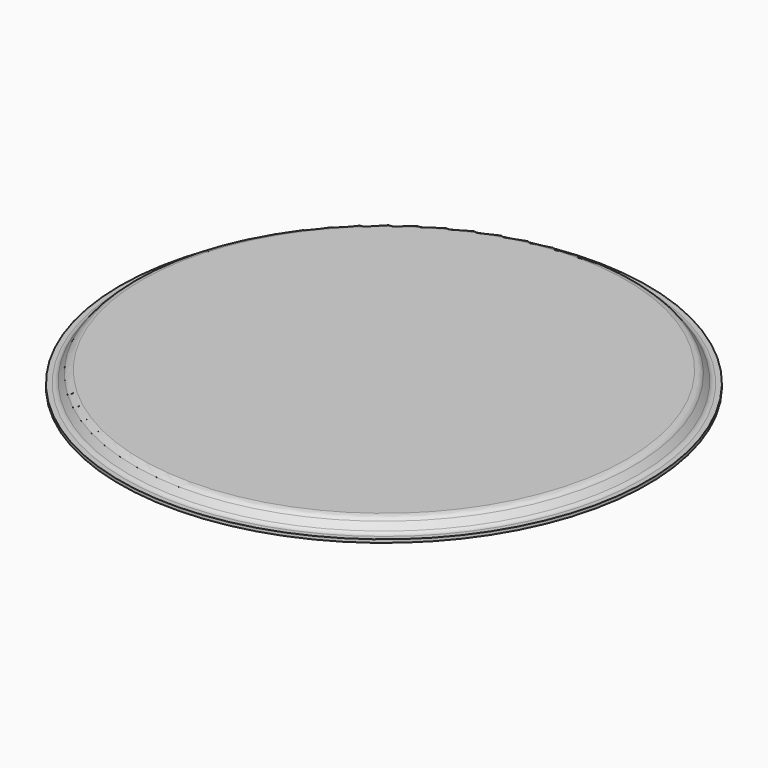
from build123d import *


with BuildPart() as f1:
    # F0 (on Front) → F1 (revolve)
    with BuildSketch(Plane.XZ):
        with BuildLine():
            Line((0, -3.4036), (0, 0))
            Line((0, 0), (-261.338394, 0))
            ThreePointArc((-261.338394, 0), (-265.494966, -0.954788), (-268.818226, -3.627735))
            Line((-268.818226, -3.627735), (-274.064209, -10.28151))
            ThreePointArc((-274.064209, -10.28151), (-276.279716, -12.063475), (-279.050764, -12.7))
            Line((-279.050764, -12.7), (-284.3276, -12.7))
            Line((-284.3276, -12.7), (-284.3276, -16.1036))
            Line((-284.3276, -16.1036), (-279.050764, -16.1036))
            ThreePointArc((-279.050764, -16.1036), (-274.794435, -15.125897), (-271.391416, -12.388799))
            Line((-271.391416, -12.388799), (-266.145433, -5.735024))
            ThreePointArc((-266.145433, -5.735024), (-264.009684, -4.01721), (-261.338394, -3.4036))
            Line((-261.338394, -3.4036), (0, -3.4036))
        make_face()
    revolve(axis=Axis((0, 0, -1.7018), (0, 0, -1)))


solid = f1.part
